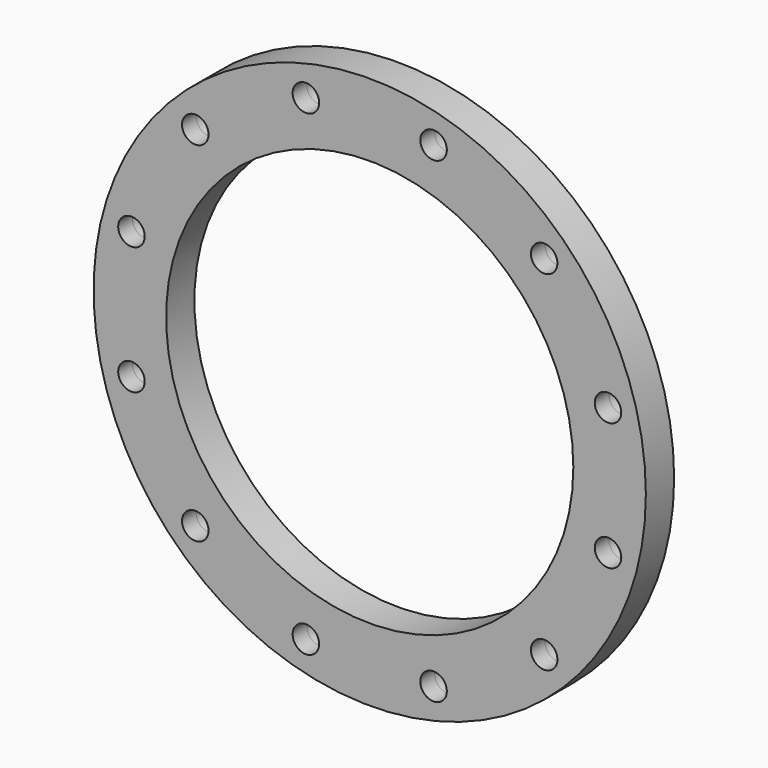
from build123d import *

# Parameters (mm, degrees)
F0_R          = 187.5
F0_R_2        = 138.25
F1_DEPTH      = 12
F2_R          = 9
F3_DEPTH      = 12
F3_DEPTH_BACK = 12


with BuildPart() as f1:
    # F0 (on Front) → F1 (new body, symmetric)
    with BuildSketch(Plane.XZ):
        Circle(F0_R)
        Circle(F0_R_2, mode=Mode.SUBTRACT)
    extrude(amount=F1_DEPTH, both=True)

    # F2 (on Front) → F3 (cut, two sides)
    with BuildSketch(Plane.XZ) as f3_sk:
        with Locations((43.3521900547, 161.7925759034)):
            Circle(F2_R)
        with Locations((-43.3521900547, 161.7925759034)):
            Circle(F2_R)
        with Locations((-118.4403858487, 118.4403858487)):
            Circle(F2_R)
        with Locations((-161.7925759034, 43.3521900547)):
            Circle(F2_R)
        with Locations((-161.7925759034, -43.3521900547)):
            Circle(F2_R)
        with Locations((-118.4403858487, -118.4403858487)):
            Circle(F2_R)
        with Locations((-43.3521900547, -161.7925759034)):
            Circle(F2_R)
        with Locations((43.3521900547, -161.7925759034)):
            Circle(F2_R)
        with Locations((118.4403858487, -118.4403858487)):
            Circle(F2_R)
        with Locations((161.7925759034, -43.3521900547)):
            Circle(F2_R)
        with Locations((161.7925759034, 43.3521900547)):
            Circle(F2_R)
        with Locations((118.4403858487, 118.4403858487)):
            Circle(F2_R)
    extrude(amount=-F3_DEPTH, mode=Mode.SUBTRACT)
    extrude(f3_sk.sketch, amount=F3_DEPTH_BACK, mode=Mode.SUBTRACT)


solid = f1.part
